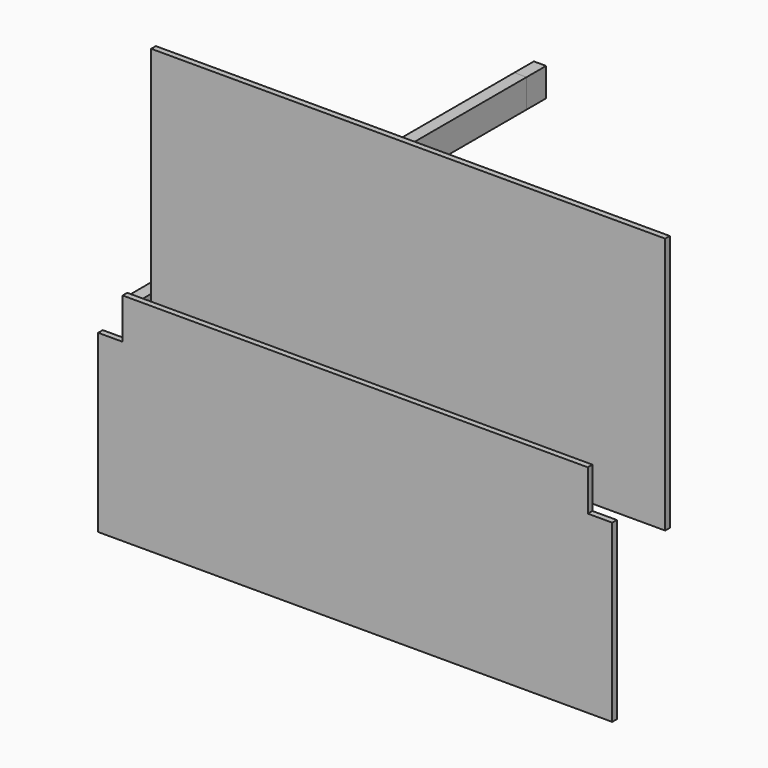
from build123d import *

# Parameters (mm, degrees)
F5_W      = 38
F5_H      = 89
F6_DEPTH  = 1600
F7_DEPTH  = 724
F8_DEPTH  = 830
F9_DEPTH  = 563
F10_W     = 1600
F10_H     = 800
F11_DEPTH = 18
F12_DEPTH = 1524
F14_DEPTH = 18


with BuildPart() as f6:
    # F5 (on Front) → F6 (new body)
    with BuildSketch(Plane.XZ):
        Rectangle(F5_W, F5_H)
    extrude(amount=-F6_DEPTH)


with BuildPart() as f7:
    # F5 (on Front) → F7 (new body)
    with BuildSketch(Plane.XZ):
        Rectangle(F5_W, F5_H)
    extrude(amount=-F7_DEPTH)


with BuildPart() as f8:
    # F5 (on Front) → F8 (new body)
    with BuildSketch(Plane.XZ):
        Rectangle(F5_W, F5_H)
    extrude(amount=-F8_DEPTH)


with BuildPart() as f9:
    # F5 (on Front) → F9 (new body)
    with BuildSketch(Plane.XZ):
        Rectangle(F5_W, F5_H)
    extrude(amount=-F9_DEPTH)


with BuildPart() as f11:
    # F10 (on Front) → F11 (new body)
    with BuildSketch(Plane.XZ):
        with Locations((869.7355747223, 358.3636045456)):
            Rectangle(F10_W, F10_H)
    extrude(amount=-F11_DEPTH)


with BuildPart() as f12:
    # F5 (on Front) → F12 (new body)
    with BuildSketch(Plane.XZ):
        Rectangle(F5_W, F5_H)
    extrude(amount=-F12_DEPTH)


with BuildPart() as f14:
    # F13 (on Front) → F14 (new body)
    with BuildSketch(Plane.XZ):
        Polygon((1443.2116563372, 65.4233279824), (-4.7883436628, 65.4233279824), (-4.7883436628, -61.5766720176), (-80.7883436628, -61.5766720176), (-80.7883436628, -607.5766720176), (1519.2116563372, -607.5766720176), (1519.2116563372, -61.5766720176), (1443.2116563372, -61.5766720176), align=None)
    extrude(amount=F14_DEPTH)


solid = Compound([f6.part, f7.part, f8.part, f9.part, f11.part, f12.part, f14.part])
